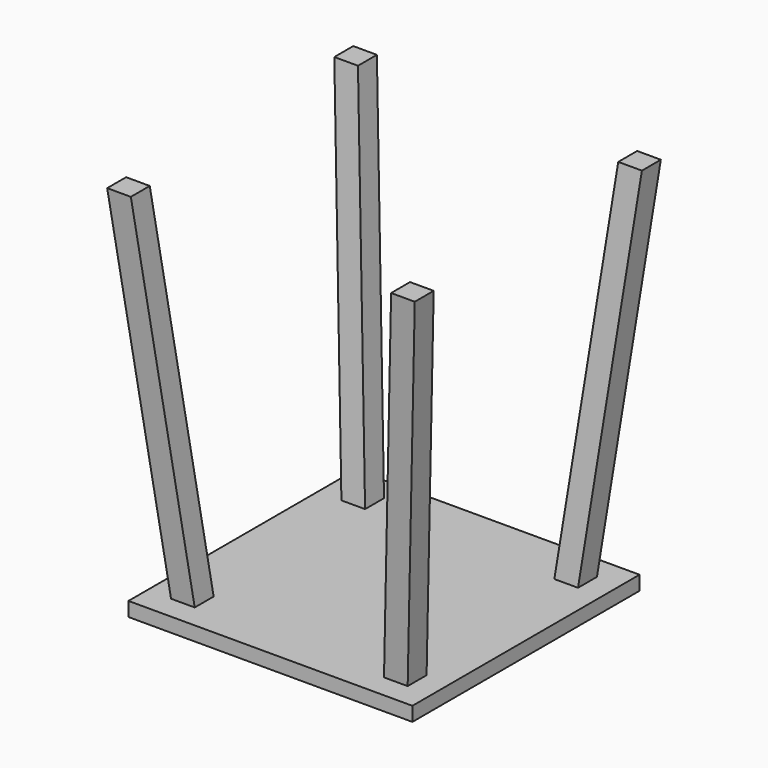
from build123d import *

# Parameters (mm, degrees)
F0_W     = 600
F0_H     = 600
F0_W_2   = 500
F0_H_2   = 500
F1_DEPTH = 30
F4_W     = 50
F4_H     = 50
F2_W     = 50
F2_H     = 50
F7_W     = 50
F7_H     = 50
F6_W     = 50
F6_H     = 50


with BuildPart() as f1:
    # F0 (on Top) → F1 (new body)
    with BuildSketch(Plane.XY):
        Rectangle(F0_W, F0_H)
        Rectangle(F0_W_2, F0_H_2, mode=Mode.SUBTRACT)
        Rectangle(F0_W_2, F0_H_2)
    extrude(amount=F1_DEPTH)

    # F4 (on offset) → F5 section 0
    with BuildSketch(Plane.XY.offset(800)):
        with Locations((-300, 300)):
            Rectangle(F4_W, F4_H)
    # F2 (on face) → F5 section 1
    with BuildSketch(Plane.XY.offset(30)):
        with Locations((-225, 225)):
            Rectangle(F2_W, F2_H)
    loft()

    # F7 (on offset) → F8 section 0
    with BuildSketch(Plane.XY.offset(800)):
        with Locations((300, 300)):
            Rectangle(F7_W, F7_H)
    # F6 (on face) → F8 section 1
    with BuildSketch(Plane.XY.offset(30)):
        with Locations((225, 225)):
            Rectangle(F6_W, F6_H)
    loft()

    # F9: F1 across plane


with BuildPart() as f1_1:
    add(f1.part)
    add(f1.part.mirror(Plane.XZ))


solid = f1_1.part
